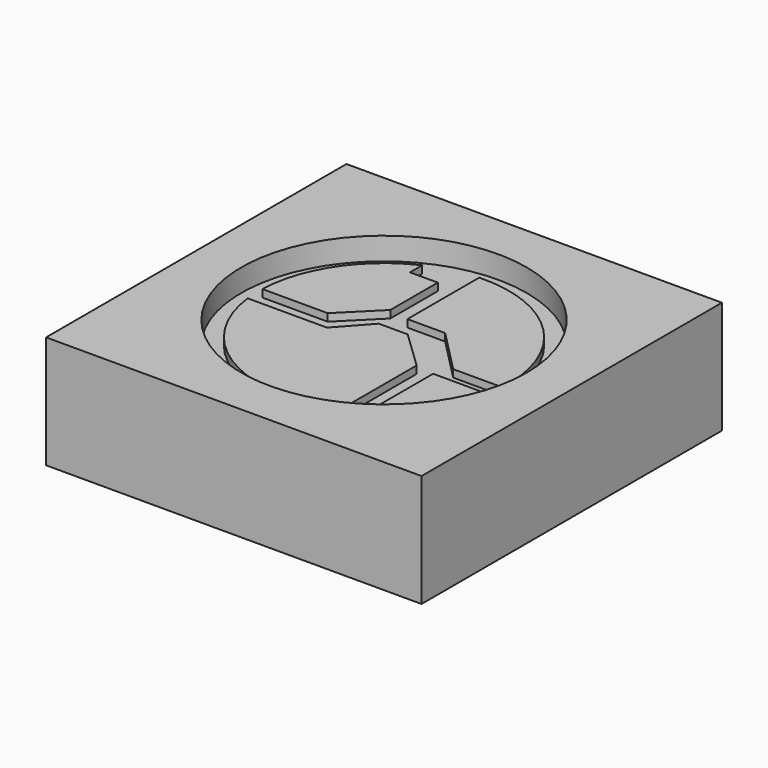
from build123d import *

# Parameters (mm, degrees)
SKETCH_W     = 5
SKETCH_H     = 5
PAD_DEPTH    = 1.5
SKETCH001_R  = 1.9
POCKET_DEPTH = 0.3
PAD001_DEPTH = 0.1


with BuildPart() as part:
    # Sketch → Pad (new body)
    with BuildSketch(Plane.XY):
        with Locations((2.5, 2.5)):
            Rectangle(SKETCH_W, SKETCH_H)
    extrude(amount=PAD_DEPTH)

    # Sketch001 → Pocket (cut)
    with BuildSketch(Plane.XY.offset(1.5)):
        with Locations((2.5, 2.5)):
            Circle(SKETCH001_R)
    extrude(amount=-POCKET_DEPTH, mode=Mode.SUBTRACT)

    # Sketch002 → Pad001 (new body)
    with BuildSketch(Plane.XY.offset(1.2)):
        with BuildLine():
            Line((0.835727, 2.554672), (1.706074, 2.554672))
            Line((1.706074, 2.554672), (2.170018, 3.017841))
            Line((2.170018, 3.017841), (2.170018, 3.807533))
            Line((2.170018, 3.807533), (1.800006, 3.807533))
            Line((1.800006, 3.807533), (1.800006, 4.010895))
            ThreePointArc((1.800006, 4.010895), (1.111625, 3.419352), (0.835727, 2.554672))
        make_face()
        with BuildLine():
            Line((2.436646, 4.163965), (2.436646, 2.968485))
            Line((2.436646, 2.968485), (2.939967, 2.968485))
            Line((2.939967, 2.968485), (3.512495, 2.385876))
            Line((3.512495, 2.385876), (4.161255, 2.385876))
            ThreePointArc((4.161255, 2.385876), (3.695292, 3.659341), (2.436646, 4.163965))
        make_face()
        with BuildLine():
            Line((0.847377, 2.295966), (1.903497, 2.295966))
            Line((1.903497, 2.295966), (2.268729, 2.701964))
            Line((2.268729, 2.701964), (2.653704, 2.701964))
            Line((2.653704, 2.701964), (3.163541, 2.213752))
            Line((3.163541, 2.213752), (3.163541, 0.972745))
            ThreePointArc((0.847377, 2.295966), (1.673986, 1.054146), (3.163541, 0.972745))
        make_face()
        with BuildLine():
            Line((3.414982, 1.108741), (3.414982, 2.174051))
            Line((3.414982, 2.174051), (4.132958, 2.174051))
            ThreePointArc((3.414982, 1.108741), (3.880841, 1.56937), (4.132958, 2.174051))
        make_face()
    extrude(amount=PAD001_DEPTH)


solid = part.part
